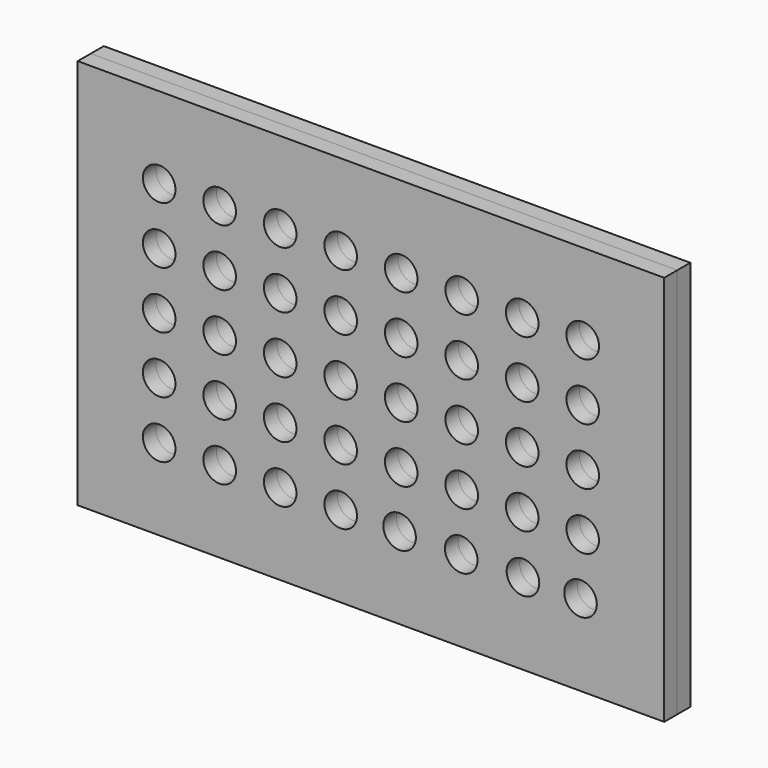
from build123d import *

# Parameters (mm, degrees)
F0_W     = 914.4
F0_H     = 609.6
F0_R     = 25.4
F1_DEPTH = 25.4
F2_DEPTH = 25.4


with BuildPart() as f1:
    # F0 (on Front) → F1 (new body)
    with BuildSketch(Plane.XZ):
        with Locations((-457.2, 304.8)):
            Rectangle(F0_W, F0_H)
        with Locations((-787.4, 127)):
            Circle(F0_R, mode=Mode.SUBTRACT)
        with Locations((-693.0644, 127)):
            Circle(F0_R, mode=Mode.SUBTRACT)
        with Locations((-598.7288, 127)):
            Circle(F0_R, mode=Mode.SUBTRACT)
        with Locations((-504.3932, 127)):
            Circle(F0_R, mode=Mode.SUBTRACT)
        with Locations((-787.4, 215.9)):
            Circle(F0_R, mode=Mode.SUBTRACT)
        with Locations((-693.0644, 215.9)):
            Circle(F0_R, mode=Mode.SUBTRACT)
        with Locations((-598.7288, 215.9)):
            Circle(F0_R, mode=Mode.SUBTRACT)
        with Locations((-504.3932, 215.9)):
            Circle(F0_R, mode=Mode.SUBTRACT)
        with Locations((-412.5920654803, 127.0361351013)):
            Circle(F0_R, mode=Mode.SUBTRACT)
        with Locations((-316.4423632889, 127.0029186265)):
            Circle(F0_R, mode=Mode.SUBTRACT)
        with Locations((-220.2204141435, 127.00764669)):
            Circle(F0_R, mode=Mode.SUBTRACT)
        with Locations((-130.490777151, 127.0665797281)):
            Circle(F0_R, mode=Mode.SUBTRACT)
        with Locations((-410.0576, 215.9)):
            Circle(F0_R, mode=Mode.SUBTRACT)
        with Locations((-315.722, 215.9)):
            Circle(F0_R, mode=Mode.SUBTRACT)
        with Locations((-221.3864, 215.9)):
            Circle(F0_R, mode=Mode.SUBTRACT)
        with Locations((-127.0508, 215.9)):
            Circle(F0_R, mode=Mode.SUBTRACT)
        with Locations((-787.4, 304.8)):
            Circle(F0_R, mode=Mode.SUBTRACT)
        with Locations((-693.0644, 304.8)):
            Circle(F0_R, mode=Mode.SUBTRACT)
        with Locations((-787.4, 393.7)):
            Circle(F0_R, mode=Mode.SUBTRACT)
        with Locations((-693.0644, 393.7)):
            Circle(F0_R, mode=Mode.SUBTRACT)
        with Locations((-598.7288, 304.8)):
            Circle(F0_R, mode=Mode.SUBTRACT)
        with Locations((-504.3932, 304.8)):
            Circle(F0_R, mode=Mode.SUBTRACT)
        with Locations((-598.7288, 393.7)):
            Circle(F0_R, mode=Mode.SUBTRACT)
        with Locations((-504.3932, 393.7)):
            Circle(F0_R, mode=Mode.SUBTRACT)
        with Locations((-787.4, 482.6)):
            Circle(F0_R, mode=Mode.SUBTRACT)
        with Locations((-693.0644, 482.6)):
            Circle(F0_R, mode=Mode.SUBTRACT)
        with Locations((-598.7288, 482.6)):
            Circle(F0_R, mode=Mode.SUBTRACT)
        with Locations((-504.3932, 482.6)):
            Circle(F0_R, mode=Mode.SUBTRACT)
        with Locations((-410.0576, 304.8)):
            Circle(F0_R, mode=Mode.SUBTRACT)
        with Locations((-315.722, 304.8)):
            Circle(F0_R, mode=Mode.SUBTRACT)
        with Locations((-410.0576, 393.7)):
            Circle(F0_R, mode=Mode.SUBTRACT)
        with Locations((-315.722, 393.7)):
            Circle(F0_R, mode=Mode.SUBTRACT)
        with Locations((-221.3864, 304.8)):
            Circle(F0_R, mode=Mode.SUBTRACT)
        with Locations((-127.0508, 304.8)):
            Circle(F0_R, mode=Mode.SUBTRACT)
        with Locations((-221.3864, 393.7)):
            Circle(F0_R, mode=Mode.SUBTRACT)
        with Locations((-127.0508, 393.7)):
            Circle(F0_R, mode=Mode.SUBTRACT)
        with Locations((-410.0576, 482.6)):
            Circle(F0_R, mode=Mode.SUBTRACT)
        with Locations((-315.722, 482.6)):
            Circle(F0_R, mode=Mode.SUBTRACT)
        with Locations((-221.3864, 482.6)):
            Circle(F0_R, mode=Mode.SUBTRACT)
        with Locations((-127.0508, 482.6)):
            Circle(F0_R, mode=Mode.SUBTRACT)
    extrude(amount=F1_DEPTH)


with BuildPart() as f2:
    # F2 (new): a face of the model
    f2_faces = [f1.part.faces().sort_by_distance(p)[0] for p in [
        (-457.1721520413, -25.4, 304.7995179973),
    ]]
    extrude(f2_faces, amount=F2_DEPTH)


solid = Compound([f1.part, f2.part])
